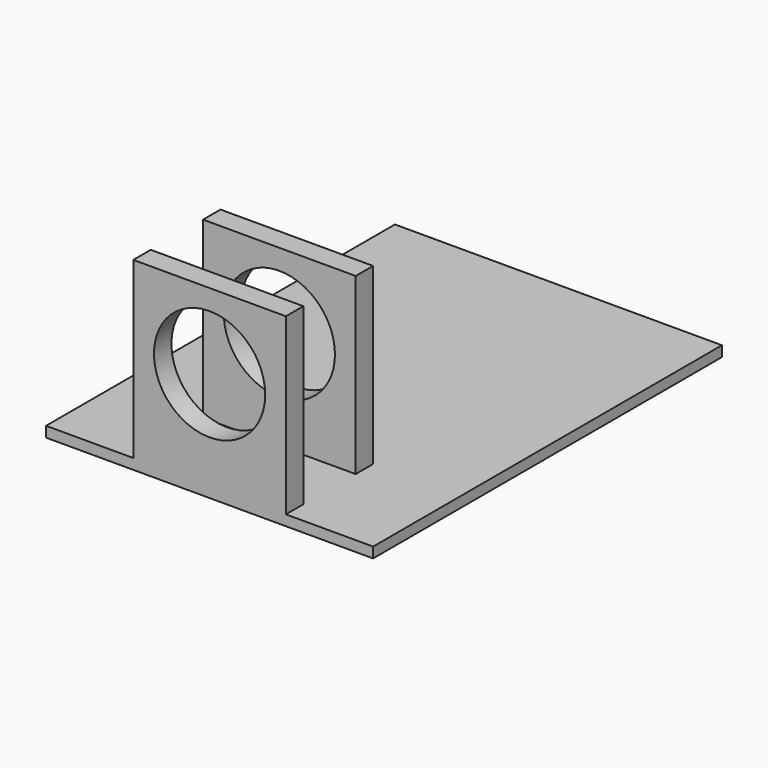
from build123d import *

# Parameters (mm, degrees)
F0_W     = 35
F0_H     = 40
F0_R     = 12.75
F1_DEPTH = 100
F2_W     = 15
F2_H     = 40
F2_W_2   = 75
F3_DEPTH = 22.5


with BuildPart() as f1:
    # F0 (on Front) → F1 (new body)
    with BuildSketch(Plane.XZ):
        with Locations((0, 20)):
            Rectangle(F0_W, F0_H)
        with Locations((0, 22.6)):
            Circle(F0_R, mode=Mode.SUBTRACT)
        Polygon((-17.5, 0), (-37.5, 0), (-37.5, -2.4), (37.5, -2.4), (37.5, 0), (17.5, 0), align=None)
    extrude(amount=F1_DEPTH)

    # F2 (on Right) → F3 (cut, symmetric)
    with BuildSketch(Plane.YZ):
        with Locations((-87.5, 20)):
            Rectangle(F2_W, F2_H)
        with Locations((-37.5, 20)):
            Rectangle(F2_W_2, F2_H)
    extrude(amount=F3_DEPTH, both=True, mode=Mode.SUBTRACT)


solid = f1.part
